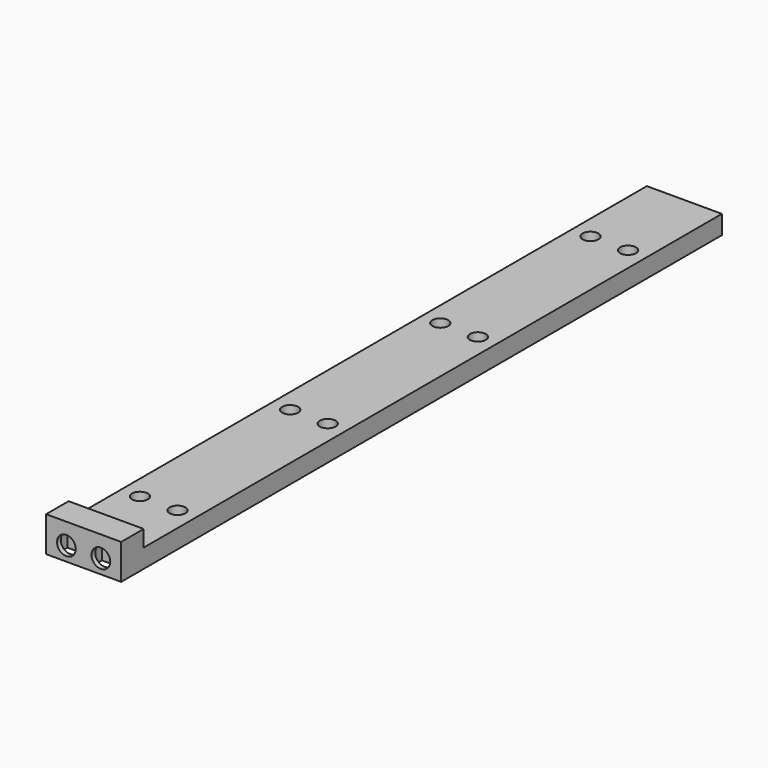
from build123d import *

# Parameters (mm, degrees)
SKETCH_W      = 16
SKETCH_H      = 6
SKETCH_W_2    = 6.05
SKETCH_H_2    = 3.05
PAD_DEPTH     = 2.05
SKETCH001_W   = 16
SKETCH001_H   = 6
PAD001_DEPTH  = 1.45
SKETCH002_W   = 16
SKETCH002_H   = 160
SKETCH002_W_2 = 6.05
SKETCH002_H_2 = 3.05
PAD002_DEPTH  = 4
SKETCH003_R   = 1.7
HOLE_DEPTH    = 25
SKETCH004_R   = 2
POCKET_DEPTH  = 1


with BuildPart() as part:
    # Sketch → Pad (new body)
    with BuildSketch(Plane.XY):
        Rectangle(SKETCH_W, SKETCH_H)
        with Locations((3.675, -0.475)):
            Rectangle(SKETCH_W_2, SKETCH_H_2, mode=Mode.SUBTRACT)
        with Locations((-3.675, -0.475)):
            Rectangle(SKETCH_W_2, SKETCH_H_2, mode=Mode.SUBTRACT)
    extrude(amount=PAD_DEPTH)

    # Sketch001 (on Face14 of Pad) → Pad001 (join)
    with BuildSketch(Plane.XY.offset(2.05)):
        Rectangle(SKETCH001_W, SKETCH001_H)
    extrude(amount=PAD001_DEPTH)

    # Sketch002 (on Face1 of Pad001) → Pad002 (join)
    with BuildSketch(Plane(origin=(0, 0, 0), x_dir=(1, 0, 0), z_dir=(0, 0, -1))):
        with Locations((0, -77)):
            Rectangle(SKETCH002_W, SKETCH002_H)
        with Locations((-3.675, 0.475)):
            Rectangle(SKETCH002_W_2, SKETCH002_H_2, mode=Mode.SUBTRACT)
        with Locations((3.675, 0.475)):
            Rectangle(SKETCH002_W_2, SKETCH002_H_2, mode=Mode.SUBTRACT)
    extrude(amount=PAD002_DEPTH)

    # Sketch003 (on Face3 of Pad002) → Hole (cut)
    with BuildSketch(Plane.XY):
        with Locations((4, 97)):
            Circle(SKETCH003_R)
        with Locations((-4, 97)):
            Circle(SKETCH003_R)
        with Locations((4, 17)):
            Circle(SKETCH003_R)
        with Locations((-4, 17)):
            Circle(SKETCH003_R)
        with Locations((4, 57)):
            Circle(SKETCH003_R)
        with Locations((-4, 57)):
            Circle(SKETCH003_R)
        with Locations((-4, 137)):
            Circle(SKETCH003_R)
        with Locations((4, 137)):
            Circle(SKETCH003_R)
    extrude(amount=-HOLE_DEPTH, mode=Mode.SUBTRACT)

    # Sketch004 (on Face3 of Hole) → Pocket (cut)
    with BuildSketch(Plane.XZ.offset(3)):
        with Locations((-3.675, -0.975)):
            Circle(SKETCH004_R)
        with Locations((3.675, -0.975)):
            Circle(SKETCH004_R)
    extrude(amount=-POCKET_DEPTH, mode=Mode.SUBTRACT)


solid = part.part
